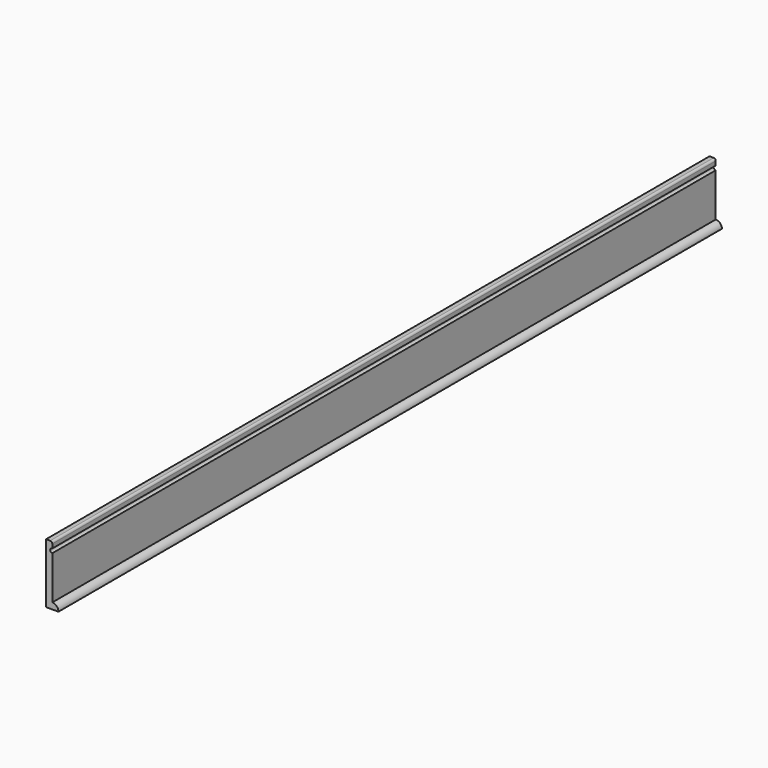
from build123d import *

# Parameters (mm, degrees)
F1_DEPTH = 2552.7


with BuildPart() as f1:
    # F0 (on Front) → F1 (new body)
    with BuildSketch(Plane.XZ):
        with BuildLine():
            Line((0, 184.15), (0, 0))
            Line((0, 0), (19.05, 0))
            Line((19.05, 0), (19.05, 19.05))
            Line((19.05, 19.05), (19.05, 152.4))
            ThreePointArc((19.05, 152.4), (12.7, 158.75), (19.05, 165.1))
            Line((19.05, 165.1), (19.05, 177.8))
            ThreePointArc((19.05, 177.8), (17.190128, 182.290128), (12.7, 184.15))
            Line((12.7, 184.15), (0, 184.15))
        make_face()
        with BuildLine():
            Line((19.05, 19.05), (19.05, 0))
            Line((19.05, 0), (38.1, 0))
            ThreePointArc((38.1, 0), (32.520384, 13.470384), (19.05, 19.05))
        make_face()
    extrude(amount=-F1_DEPTH)


solid = f1.part
